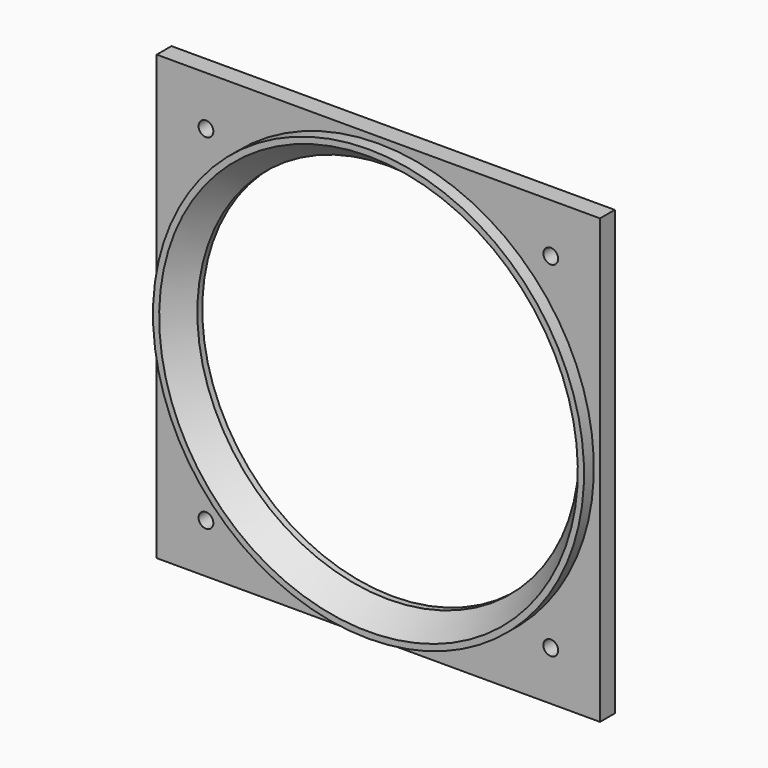
from build123d import *

# Parameters (mm, degrees)
F3_W     = 72
F3_H     = 72
F3_R     = 1.2
F3_R_2   = 35
F4_DEPTH = 3


with BuildPart() as f1:
    # F0 (on Right) → F1 (revolve)
    with BuildSketch(Plane.YZ):
        Polygon((2, 35), (-3, 35), (-3, 34), (1, 31), (2, 31), align=None)
    revolve(axis=Axis((0, 1.602868, 0), (0, -1, 0)))

    # F3 (on offset) → F4 (join)
    with BuildSketch(Plane.XZ.offset(1)):
        Rectangle(F3_W, F3_H)
        with Locations((-28, -28)):
            Circle(F3_R, mode=Mode.SUBTRACT)
        with Locations((28, -28)):
            Circle(F3_R, mode=Mode.SUBTRACT)
        with Locations((-28, 28)):
            Circle(F3_R, mode=Mode.SUBTRACT)
        Circle(F3_R_2, mode=Mode.SUBTRACT)
        with Locations((28, 28)):
            Circle(F3_R, mode=Mode.SUBTRACT)
    extrude(amount=-F4_DEPTH)


solid = f1.part
